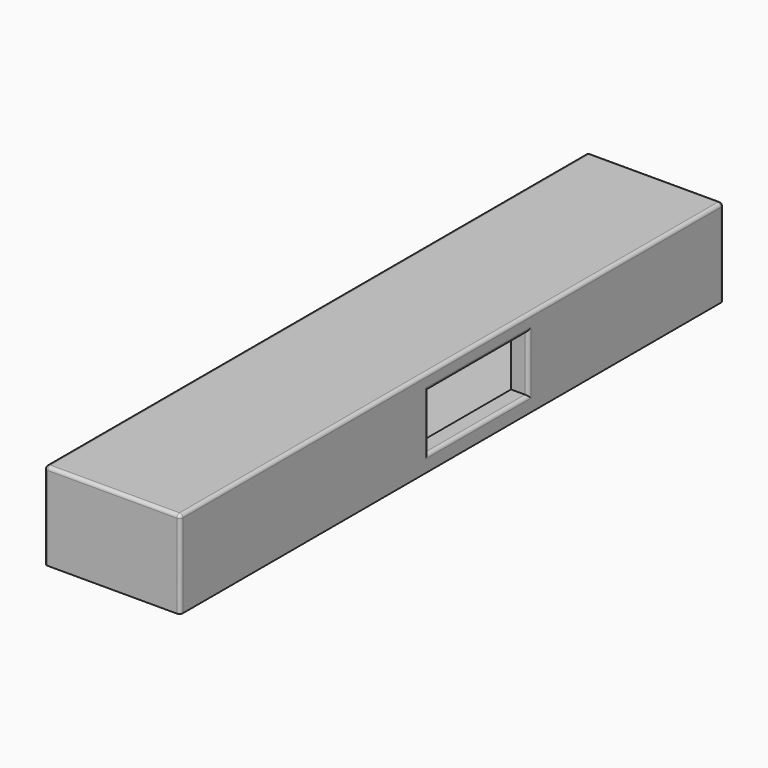
from build123d import *

# Parameters (mm, degrees)
F0_W     = 1400
F0_H     = 900
F1_DEPTH = 7000
F2_W     = 1044.063568
F2_H     = 668.957592
F3_DEPTH = 3657.6
F4_W     = 1288.467884
F4_H     = 573.341608
F5_DEPTH = 1400.001
F6_R     = 35
F7_R     = 35


with BuildPart() as f1:
    # F0 (on Front) → F1 (new body)
    with BuildSketch(Plane.XZ):
        Rectangle(F0_W, F0_H)
    extrude(amount=F1_DEPTH)

    # F2 (on Front) → F3 (cut)
    with BuildSketch(Plane.XZ):
        Rectangle(F2_W, F2_H)
    extrude(amount=F3_DEPTH, mode=Mode.SUBTRACT)

    # F4 (on face) → F5 (cut, through all)
    with BuildSketch(Plane.YZ.offset(700)):
        with Locations((-3160.439014, 0)):
            Rectangle(F4_W, F4_H)
    extrude(amount=-F5_DEPTH, mode=Mode.SUBTRACT)

    # F6
    f6_edges = [f1.edges().sort_by_distance(p)[0] for p in [
        (0, -7000, 450),
        (700, -7000, 0),
        (700, -3500, 450),
        (-700, -7000, 0),
        (-700, -3500, 450),
        (0, 0, 450),
        (700, 0, 0),
        (-700, 0, 0),
    ]]
    fillet(f6_edges, radius=F6_R)

    # F7
    f7_edges = [f1.edges().sort_by_distance(p)[0] for p in [
        (522.031784, 0, 0),
        (0, 0, 334.478796),
        (-522.031784, 0, 0),
        (700, -3804.672956, 0),
        (700, -3160.439014, -286.670804),
        (700, -2516.205072, 0),
        (700, -3160.439014, 286.670804),
        (-700, -3160.439014, -286.670804),
        (-700, -2516.205072, 0),
        (-700, -3160.439014, 286.670804),
        (-700, -3804.672956, 0),
    ]]
    fillet(f7_edges, radius=F7_R)


solid = f1.part
